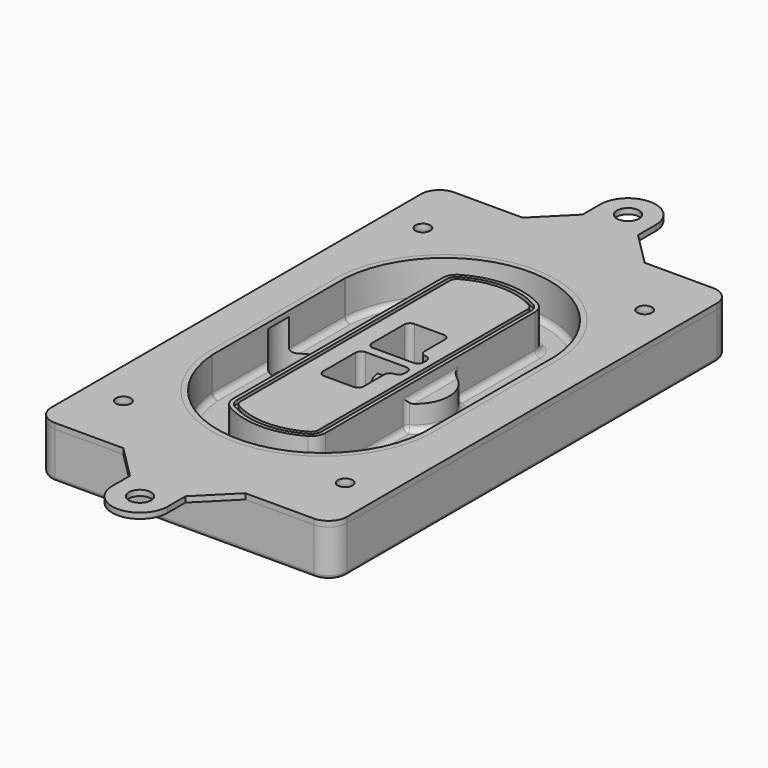
from build123d import *

# Parameters (mm, degrees)
F0_R      = 4
F1_DEPTH  = 25
F2_DEPTH  = 3
F3_DEPTH  = 18
F5_DEPTH  = 21
F6_DEPTH  = 2
F8_DEPTH  = 20
F9_DEPTH  = 16
F10_DEPTH = 25
F7_R      = 6
F7_R_2    = 4
F11_DEPTH = 6
F13_DEPTH = 9
F14_R     = 3
F15_R     = 2
F16_R     = 6
F16_R_2   = 4
F17_DEPTH = 3


with BuildPart() as f1:
    # F0 (on Top) → F1 (new body)
    with BuildSketch(Plane.XY):
        with BuildLine():
            ThreePointArc((-80, -125), (-77.0710678119, -132.0710678119), (-70, -135))
            Line((-70, -135), (70, -135))
            ThreePointArc((70, -135), (77.0710678119, -132.0710678119), (80, -125))
            Line((80, -125), (80, 125))
            ThreePointArc((80, 125), (77.0710678119, 132.0710678119), (70, 135))
            Line((70, 135), (-70, 135))
            ThreePointArc((-70, 135), (-77.0710678119, 132.0710678119), (-80, 125))
            Line((-80, 125), (-80, -125))
        make_face()
        with Locations((-60, -101.25)):
            Circle(F0_R, mode=Mode.SUBTRACT)
        with Locations((60, -101.25)):
            Circle(F0_R, mode=Mode.SUBTRACT)
        with Locations((-60, 101.25)):
            Circle(F0_R, mode=Mode.SUBTRACT)
        with BuildLine():
            ThreePointArc((-64, 44.6627429245), (-63.991269098, 45.1571001106), (-63.9650872818, 45.650840699))
            ThreePointArc((-63.9650872818, 45.650840699), (0, 105.25), (63.9650872818, 45.650840699))
            ThreePointArc((63.9650872818, 45.650840699), (63.991269098, 45.1571001106), (64, 44.6627429245))
            Line((64, 44.6627429245), (64, -44.6627429245))
            ThreePointArc((64, -44.6627429245), (63.991269098, -45.1571001106), (63.9650872818, -45.650840699))
            ThreePointArc((63.9650872818, -45.650840699), (0, -105.25), (-63.9650872818, -45.650840699))
            ThreePointArc((-63.9650872818, -45.650840699), (-63.991269098, -45.1571001106), (-64, -44.6627429245))
            Line((-64, -44.6627429245), (-64, 44.6627429245))
        make_face(mode=Mode.SUBTRACT)
        with Locations((60, 101.25)):
            Circle(F0_R, mode=Mode.SUBTRACT)
        with BuildLine():
            ThreePointArc((63.9650872818, 45.650840699), (0, 105.25), (-63.9650872818, 45.650840699))
            ThreePointArc((-63.9650872818, 45.650840699), (-63.991269098, 45.1571001106), (-64, 44.6627429245))
            Line((-64, 44.6627429245), (-64, -44.6627429245))
            ThreePointArc((-64, -44.6627429245), (-63.991269098, -45.1571001106), (-63.9650872818, -45.650840699))
            ThreePointArc((-63.9650872818, -45.650840699), (0, -105.25), (63.9650872818, -45.650840699))
            ThreePointArc((63.9650872818, -45.650840699), (63.991269098, -45.1571001106), (64, -44.6627429245))
            Line((64, -44.6627429245), (64, 44.6627429245))
            ThreePointArc((64, 44.6627429245), (63.991269098, 45.1571001106), (63.9650872818, 45.650840699))
        make_face()
        with BuildLine():
            Line((-60, -44.6627429245), (-60, 44.6627429245))
            ThreePointArc((-60, 44.6627429245), (-59.9937636414, 45.0158552003), (-59.9750623441, 45.3685270491))
            ThreePointArc((-59.9750623441, 45.3685270491), (0, 101.25), (59.9750623441, 45.3685270491))
            ThreePointArc((59.9750623441, 45.3685270491), (59.9937636414, 45.0158552003), (60, 44.6627429245))
            Line((60, 44.6627429245), (60, -44.6627429245))
            ThreePointArc((60, -44.6627429245), (59.9937636414, -45.0158552003), (59.9750623441, -45.3685270491))
            ThreePointArc((59.9750623441, -45.3685270491), (0, -101.25), (-59.9750623441, -45.3685270491))
            ThreePointArc((-59.9750623441, -45.3685270491), (-59.9937636414, -45.0158552003), (-60, -44.6627429245))
        make_face(mode=Mode.SUBTRACT)
        with BuildLine():
            ThreePointArc((-59.9750623441, 45.3685270491), (-59.9937636414, 45.0158552003), (-60, 44.6627429245))
            Line((-60, 44.6627429245), (-60, -44.6627429245))
            ThreePointArc((-60, -44.6627429245), (-59.9937636414, -45.0158552003), (-59.9750623441, -45.3685270491))
            ThreePointArc((-59.9750623441, -45.3685270491), (0, -101.25), (59.9750623441, -45.3685270491))
            ThreePointArc((59.9750623441, -45.3685270491), (59.9937636414, -45.0158552003), (60, -44.6627429245))
            Line((60, -44.6627429245), (60, 44.6627429245))
            ThreePointArc((60, 44.6627429245), (59.9937636414, 45.0158552003), (59.9750623441, 45.3685270491))
            ThreePointArc((59.9750623441, 45.3685270491), (0, 101.25), (-59.9750623441, 45.3685270491))
        make_face()
        with BuildLine():
            ThreePointArc((56.9825436409, 45.1567918117), (56.995634549, 44.9099215176), (57, 44.6627429245))
            Line((57, 44.6627429245), (57, -44.6627429245))
            ThreePointArc((57, -44.6627429245), (56.995634549, -44.9099215176), (56.9825436409, -45.1567918117))
            ThreePointArc((56.9825436409, -45.1567918117), (0, -98.25), (-56.9825436409, -45.1567918117))
            ThreePointArc((-56.9825436409, -45.1567918117), (-56.995634549, -44.9099215176), (-57, -44.6627429245))
            Line((-57, -44.6627429245), (-57, 44.6627429245))
            ThreePointArc((-57, 44.6627429245), (-56.995634549, 44.9099215176), (-56.9825436409, 45.1567918117))
            ThreePointArc((-56.9825436409, 45.1567918117), (0, 98.25), (56.9825436409, 45.1567918117))
        make_face(mode=Mode.SUBTRACT)
        with BuildLine():
            Line((57, -44.6627429245), (57, 44.6627429245))
            ThreePointArc((57, 44.6627429245), (56.995634549, 44.9099215176), (56.9825436409, 45.1567918117))
            ThreePointArc((56.9825436409, 45.1567918117), (0, 98.25), (-56.9825436409, 45.1567918117))
            ThreePointArc((-56.9825436409, 45.1567918117), (-56.995634549, 44.9099215176), (-57, 44.6627429245))
            Line((-57, 44.6627429245), (-57, -44.6627429245))
            ThreePointArc((-57, -44.6627429245), (-56.995634549, -44.9099215176), (-56.9825436409, -45.1567918117))
            ThreePointArc((-56.9825436409, -45.1567918117), (0, -98.25), (56.9825436409, -45.1567918117))
            ThreePointArc((56.9825436409, -45.1567918117), (56.995634549, -44.9099215176), (57, -44.6627429245))
        make_face()
    extrude(amount=-F1_DEPTH)

    # F0 (on Top) → F2 (join)
    with BuildSketch(Plane.XY):
        with BuildLine():
            ThreePointArc((-59.9750623441, 45.3685270491), (-59.9937636414, 45.0158552003), (-60, 44.6627429245))
            Line((-60, 44.6627429245), (-60, -44.6627429245))
            ThreePointArc((-60, -44.6627429245), (-59.9937636414, -45.0158552003), (-59.9750623441, -45.3685270491))
            ThreePointArc((-59.9750623441, -45.3685270491), (0, -101.25), (59.9750623441, -45.3685270491))
            ThreePointArc((59.9750623441, -45.3685270491), (59.9937636414, -45.0158552003), (60, -44.6627429245))
            Line((60, -44.6627429245), (60, 44.6627429245))
            ThreePointArc((60, 44.6627429245), (59.9937636414, 45.0158552003), (59.9750623441, 45.3685270491))
            ThreePointArc((59.9750623441, 45.3685270491), (0, 101.25), (-59.9750623441, 45.3685270491))
        make_face()
        with BuildLine():
            ThreePointArc((56.9825436409, 45.1567918117), (56.995634549, 44.9099215176), (57, 44.6627429245))
            Line((57, 44.6627429245), (57, -44.6627429245))
            ThreePointArc((57, -44.6627429245), (56.995634549, -44.9099215176), (56.9825436409, -45.1567918117))
            ThreePointArc((56.9825436409, -45.1567918117), (0, -98.25), (-56.9825436409, -45.1567918117))
            ThreePointArc((-56.9825436409, -45.1567918117), (-56.995634549, -44.9099215176), (-57, -44.6627429245))
            Line((-57, -44.6627429245), (-57, 44.6627429245))
            ThreePointArc((-57, 44.6627429245), (-56.995634549, 44.9099215176), (-56.9825436409, 45.1567918117))
            ThreePointArc((-56.9825436409, 45.1567918117), (0, 98.25), (56.9825436409, 45.1567918117))
        make_face(mode=Mode.SUBTRACT)
    extrude(amount=F2_DEPTH)

    # F0 (on Top) → F3 (cut)
    with BuildSketch(Plane.XY):
        with BuildLine():
            Line((57, -44.6627429245), (57, 44.6627429245))
            ThreePointArc((57, 44.6627429245), (56.995634549, 44.9099215176), (56.9825436409, 45.1567918117))
            ThreePointArc((56.9825436409, 45.1567918117), (0, 98.25), (-56.9825436409, 45.1567918117))
            ThreePointArc((-56.9825436409, 45.1567918117), (-56.995634549, 44.9099215176), (-57, 44.6627429245))
            Line((-57, 44.6627429245), (-57, -44.6627429245))
            ThreePointArc((-57, -44.6627429245), (-56.995634549, -44.9099215176), (-56.9825436409, -45.1567918117))
            ThreePointArc((-56.9825436409, -45.1567918117), (0, -98.25), (56.9825436409, -45.1567918117))
            ThreePointArc((56.9825436409, -45.1567918117), (56.995634549, -44.9099215176), (57, -44.6627429245))
        make_face()
    extrude(amount=-F3_DEPTH, mode=Mode.SUBTRACT)

    # F4 (on face) → F5 (join, through all)
    with BuildSketch(Plane.XY.offset(3)):
        with BuildLine():
            ThreePointArc((-25, -70.7141132851), (-23.9239722661, -74.7214325959), (-20.9853479853, -77.6507552274))
            ThreePointArc((-20.9853479853, -77.6507552274), (0, -83.25), (20.9853479853, -77.6507552274))
            ThreePointArc((20.9853479853, -77.6507552274), (23.9239722661, -74.7214325959), (25, -70.7141132851))
            Line((25, -70.7141132851), (25, 70.7141132851))
            ThreePointArc((25, 70.7141132851), (23.9239722661, 74.7214325959), (20.9853479853, 77.6507552274))
            ThreePointArc((20.9853479853, 77.6507552274), (0, 83.25), (-20.9853479853, 77.6507552274))
            ThreePointArc((-20.9853479853, 77.6507552274), (-23.9239722661, 74.7214325959), (-25, 70.7141132851))
            Line((-25, 70.7141132851), (-25, -70.7141132851))
        make_face()
        with BuildLine():
            ThreePointArc((19.989010989, 75.9165947419), (22.1929791996, 73.7196027682), (23, 70.7141132851))
            Line((23, 70.7141132851), (23, -70.7141132851))
            ThreePointArc((23, -70.7141132851), (22.1929791996, -73.7196027682), (19.989010989, -75.9165947419))
            ThreePointArc((19.989010989, -75.9165947419), (0, -81.25), (-19.989010989, -75.9165947419))
            ThreePointArc((-19.989010989, -75.9165947419), (-22.1929791996, -73.7196027682), (-23, -70.7141132851))
            Line((-23, -70.7141132851), (-23, 70.7141132851))
            ThreePointArc((-23, 70.7141132851), (-22.1929791996, 73.7196027682), (-19.989010989, 75.9165947419))
            ThreePointArc((-19.989010989, 75.9165947419), (0, 81.25), (19.989010989, 75.9165947419))
        make_face(mode=Mode.SUBTRACT)
        with BuildLine():
            Line((23, -70.7141132851), (23, 70.7141132851))
            ThreePointArc((23, 70.7141132851), (22.1929791996, 73.7196027682), (19.989010989, 75.9165947419))
            ThreePointArc((19.989010989, 75.9165947419), (0, 81.25), (-19.989010989, 75.9165947419))
            ThreePointArc((-19.989010989, 75.9165947419), (-22.1929791996, 73.7196027682), (-23, 70.7141132851))
            Line((-23, 70.7141132851), (-23, -70.7141132851))
            ThreePointArc((-23, -70.7141132851), (-22.1929791996, -73.7196027682), (-19.989010989, -75.9165947419))
            ThreePointArc((-19.989010989, -75.9165947419), (0, -81.25), (19.989010989, -75.9165947419))
            ThreePointArc((19.989010989, -75.9165947419), (22.1929791996, -73.7196027682), (23, -70.7141132851))
        make_face()
        with BuildLine():
            ThreePointArc((18.9926739927, 74.1824342563), (20.461986133, 72.7177729405), (21, 70.7141132851))
            Line((21, 70.7141132851), (21, -70.7141132851))
            ThreePointArc((21, -70.7141132851), (20.461986133, -72.7177729405), (18.9926739927, -74.1824342563))
            ThreePointArc((18.9926739927, -74.1824342563), (0, -79.25), (-18.9926739927, -74.1824342563))
            ThreePointArc((-18.9926739927, -74.1824342563), (-20.461986133, -72.7177729405), (-21, -70.7141132851))
            Line((-21, -70.7141132851), (-21, 70.7141132851))
            ThreePointArc((-21, 70.7141132851), (-20.461986133, 72.7177729405), (-18.9926739927, 74.1824342563))
            ThreePointArc((-18.9926739927, 74.1824342563), (0, 79.25), (18.9926739927, 74.1824342563))
        make_face(mode=Mode.SUBTRACT)
        with BuildLine():
            Line((21, -70.7141132851), (21, 70.7141132851))
            ThreePointArc((21, 70.7141132851), (20.461986133, 72.7177729405), (18.9926739927, 74.1824342563))
            ThreePointArc((18.9926739927, 74.1824342563), (0, 79.25), (-18.9926739927, 74.1824342563))
            ThreePointArc((-18.9926739927, 74.1824342563), (-20.461986133, 72.7177729405), (-21, 70.7141132851))
            Line((-21, 70.7141132851), (-21, -70.7141132851))
            ThreePointArc((-21, -70.7141132851), (-20.461986133, -72.7177729405), (-18.9926739927, -74.1824342563))
            ThreePointArc((-18.9926739927, -74.1824342563), (0, -79.25), (18.9926739927, -74.1824342563))
            ThreePointArc((18.9926739927, -74.1824342563), (20.461986133, -72.7177729405), (21, -70.7141132851))
        make_face()
        with BuildLine():
            Line((-8, -2.5), (14, -2.5))
            ThreePointArc((14, -2.5), (16.1213203436, -3.3786796564), (17, -5.5))
            Line((17, -5.5), (17, -7.5))
            ThreePointArc((17, -7.5), (16.1213203436, -9.6213203436), (14, -10.5))
            ThreePointArc((14, -10.5), (11.8786796564, -11.3786796564), (11, -13.5))
            Line((11, -13.5), (11, -27.5))
            ThreePointArc((11, -27.5), (10.1213203436, -29.6213203436), (8, -30.5))
            Line((8, -30.5), (-8, -30.5))
            ThreePointArc((-8, -30.5), (-10.1213203436, -29.6213203436), (-11, -27.5))
            Line((-11, -27.5), (-11, -5.5))
            ThreePointArc((-11, -5.5), (-10.1213203436, -3.3786796564), (-8, -2.5))
        make_face(mode=Mode.SUBTRACT)
        with BuildLine():
            ThreePointArc((-8, 2.5), (-10.1213203436, 3.3786796564), (-11, 5.5))
            Line((-11, 5.5), (-11, 27.5))
            ThreePointArc((-11, 27.5), (-10.1213203436, 29.6213203436), (-8, 30.5))
            Line((-8, 30.5), (8, 30.5))
            ThreePointArc((8, 30.5), (10.1213203436, 29.6213203436), (11, 27.5))
            Line((11, 27.5), (11, 13.5))
            ThreePointArc((11, 13.5), (11.8786796564, 11.3786796564), (14, 10.5))
            ThreePointArc((14, 10.5), (16.1213203436, 9.6213203436), (17, 7.5))
            Line((17, 7.5), (17, 5.5))
            ThreePointArc((17, 5.5), (16.1213203436, 3.3786796564), (14, 2.5))
            Line((14, 2.5), (-8, 2.5))
        make_face(mode=Mode.SUBTRACT)
    extrude(amount=-F5_DEPTH)

    # F4 (on face) → F6 (cut)
    with BuildSketch(Plane.XY.offset(3)):
        with BuildLine():
            Line((23, -70.7141132851), (23, 70.7141132851))
            ThreePointArc((23, 70.7141132851), (22.1929791996, 73.7196027682), (19.989010989, 75.9165947419))
            ThreePointArc((19.989010989, 75.9165947419), (0, 81.25), (-19.989010989, 75.9165947419))
            ThreePointArc((-19.989010989, 75.9165947419), (-22.1929791996, 73.7196027682), (-23, 70.7141132851))
            Line((-23, 70.7141132851), (-23, -70.7141132851))
            ThreePointArc((-23, -70.7141132851), (-22.1929791996, -73.7196027682), (-19.989010989, -75.9165947419))
            ThreePointArc((-19.989010989, -75.9165947419), (0, -81.25), (19.989010989, -75.9165947419))
            ThreePointArc((19.989010989, -75.9165947419), (22.1929791996, -73.7196027682), (23, -70.7141132851))
        make_face()
        with BuildLine():
            ThreePointArc((18.9926739927, 74.1824342563), (20.461986133, 72.7177729405), (21, 70.7141132851))
            Line((21, 70.7141132851), (21, -70.7141132851))
            ThreePointArc((21, -70.7141132851), (20.461986133, -72.7177729405), (18.9926739927, -74.1824342563))
            ThreePointArc((18.9926739927, -74.1824342563), (0, -79.25), (-18.9926739927, -74.1824342563))
            ThreePointArc((-18.9926739927, -74.1824342563), (-20.461986133, -72.7177729405), (-21, -70.7141132851))
            Line((-21, -70.7141132851), (-21, 70.7141132851))
            ThreePointArc((-21, 70.7141132851), (-20.461986133, 72.7177729405), (-18.9926739927, 74.1824342563))
            ThreePointArc((-18.9926739927, 74.1824342563), (0, 79.25), (18.9926739927, 74.1824342563))
        make_face(mode=Mode.SUBTRACT)
    extrude(amount=-F6_DEPTH, mode=Mode.SUBTRACT)

    # F7 (on face) → F8 (join)
    with BuildSketch(Plane(origin=(0, 0, -25), x_dir=(1, 0, 0), z_dir=(0, 0, -1))):
        with BuildLine():
            ThreePointArc((3.28842436, 0), (16.7567035675, 13.4682792075), (30.224982775, 0))
            Line((30.224982775, 0), (35.224982775, 0))
            ThreePointArc((35.224982775, 0), (16.7567035675, 18.4682792075), (-1.71157564, 0))
            Line((-1.71157564, 0), (3.28842436, 0))
        make_face()
        with BuildLine():
            Line((3.28842436, 0), (30.224982775, 0))
            ThreePointArc((30.224982775, 0), (16.7567035675, 13.4682792075), (3.28842436, 0))
        make_face()
        with BuildLine():
            ThreePointArc((3.28842436, 0), (16.7567035675, -13.4682792075), (30.224982775, 0))
            Line((30.224982775, 0), (3.28842436, 0))
        make_face()
        with BuildLine():
            Line((35.224982775, 0), (30.224982775, 0))
            ThreePointArc((30.224982775, 0), (16.7567035675, -13.4682792075), (3.28842436, 0))
            Line((3.28842436, 0), (-1.71157564, 0))
            ThreePointArc((-1.71157564, 0), (16.7567035675, -18.4682792075), (35.224982775, 0))
        make_face()
    extrude(amount=-F8_DEPTH)

    # F7 (on face) → F9 (cut)
    with BuildSketch(Plane(origin=(0, 0, -25), x_dir=(1, 0, 0), z_dir=(0, 0, -1))):
        with BuildLine():
            Line((3.28842436, 0), (30.224982775, 0))
            ThreePointArc((30.224982775, 0), (16.7567035675, 13.4682792075), (3.28842436, 0))
        make_face()
        with BuildLine():
            ThreePointArc((3.28842436, 0), (16.7567035675, -13.4682792075), (30.224982775, 0))
            Line((30.224982775, 0), (3.28842436, 0))
        make_face()
    extrude(amount=-F9_DEPTH, mode=Mode.SUBTRACT)

    # F7 (on face) → F10 (cut)
    with BuildSketch(Plane(origin=(0, 0, -25), x_dir=(1, 0, 0), z_dir=(0, 0, -1))):
        with BuildLine():
            Line((-59.0318229325, 0), (-32.0952645175, 0))
            ThreePointArc((-32.0952645175, 0), (-45.563543725, 13.4682792075), (-59.0318229325, 0))
        make_face()
        with BuildLine():
            ThreePointArc((-59.0318229325, 0), (-45.563543725, -13.4682792075), (-32.0952645175, 0))
            Line((-32.0952645175, 0), (-59.0318229325, 0))
        make_face()
    extrude(amount=-F10_DEPTH, mode=Mode.SUBTRACT)

    # F7 (on face) → F11 (cut)
    with BuildSketch(Plane(origin=(0, 0, -25), x_dir=(1, 0, 0), z_dir=(0, 0, -1))):
        with Locations((60, -101.25)):
            Circle(F7_R)
        with Locations((60, -101.25)):
            Circle(F7_R_2, mode=Mode.SUBTRACT)
        with Locations((60, -101.25)):
            Circle(F7_R)
        with Locations((60, -101.25)):
            Circle(F7_R_2, mode=Mode.SUBTRACT)
        with Locations((-60, -101.25)):
            Circle(F7_R)
        with Locations((-60, -101.25)):
            Circle(F7_R_2, mode=Mode.SUBTRACT)
        with Locations((-60, -101.25)):
            Circle(F7_R)
        with Locations((-60, -101.25)):
            Circle(F7_R_2, mode=Mode.SUBTRACT)
        with Locations((-60, 101.25)):
            Circle(F7_R)
        with Locations((-60, 101.25)):
            Circle(F7_R_2, mode=Mode.SUBTRACT)
        with Locations((-60, 101.25)):
            Circle(F7_R)
        with Locations((-60, 101.25)):
            Circle(F7_R_2, mode=Mode.SUBTRACT)
        with Locations((60, 101.25)):
            Circle(F7_R)
        with Locations((60, 101.25)):
            Circle(F7_R_2, mode=Mode.SUBTRACT)
        with Locations((60, 101.25)):
            Circle(F7_R)
        with Locations((60, 101.25)):
            Circle(F7_R_2, mode=Mode.SUBTRACT)
    extrude(amount=-F11_DEPTH, mode=Mode.SUBTRACT)

    # F12 (on face) → F13 (cut, through all)
    with BuildSketch(Plane(origin=(0, 0, -9), x_dir=(1, 0, 0), z_dir=(0, 0, -1))):
        with BuildLine():
            Line((11, 13.5), (11, 17.5481537753))
            ThreePointArc((11, 17.5481537753), (2.5696536419, 11.8239143813), (-1.5415842455, 2.5))
            Line((-1.5415842455, 2.5), (3.5224848595, 2.5))
            ThreePointArc((3.5224848595, 2.5), (6.1857188154, 8.3455872281), (11.2536447004, 12.2927168648))
            ThreePointArc((11.2536447004, 12.2927168648), (11.0640958889, 12.8831798879), (11, 13.5))
        make_face()
        with BuildLine():
            ThreePointArc((11.2536447004, -12.2927168648), (6.1857188154, -8.3455872281), (3.5224848595, -2.5))
            Line((3.5224848595, -2.5), (-1.5415842455, -2.5))
            ThreePointArc((-1.5415842455, -2.5), (2.5696536419, -11.8239143813), (11, -17.5481537753))
            Line((11, -17.5481537753), (11, -13.5))
            ThreePointArc((11, -13.5), (11.0640958889, -12.8831798879), (11.2536447004, -12.2927168648))
        make_face()
        with BuildLine():
            ThreePointArc((11.2536447004, 12.2927168648), (6.1857188154, 8.3455872281), (3.5224848595, 2.5))
            Line((3.5224848595, 2.5), (14, 2.5))
            ThreePointArc((14, 2.5), (16.1213203436, 3.3786796564), (17, 5.5))
            Line((17, 5.5), (17, 7.5))
            ThreePointArc((17, 7.5), (16.1213203436, 9.6213203436), (14, 10.5))
            ThreePointArc((14, 10.5), (12.3601599782, 10.9878446101), (11.2536447004, 12.2927168648))
        make_face()
        with BuildLine():
            Line((14, -2.5), (3.5224848595, -2.5))
            ThreePointArc((3.5224848595, -2.5), (6.1857188154, -8.3455872281), (11.2536447004, -12.2927168648))
            ThreePointArc((11.2536447004, -12.2927168648), (12.3601599782, -10.9878446101), (14, -10.5))
            ThreePointArc((14, -10.5), (16.1213203436, -9.6213203436), (17, -7.5))
            Line((17, -7.5), (17, -5.5))
            ThreePointArc((17, -5.5), (16.1213203436, -3.3786796564), (14, -2.5))
        make_face()
    extrude(amount=F13_DEPTH, mode=Mode.SUBTRACT)

    # F14
    f14_edges = [f1.edges().sort_by_distance(p)[0] for p in [
        (-57, -25.888126, -18),
        (-57, 25.888126, -18),
        (25, 0, -5),
        (25, 16.526506, -11.5),
        (25, -16.526506, -11.5),
        (25, -43.62031, -18),
        (35.224983, 0, -18),
    ]]
    fillet(f14_edges, radius=F14_R)

    # F15
    f15_edges = [f1.edges().sort_by_distance(p)[0] for p in [
        (0, -135, -25),
    ]]
    fillet(f15_edges, radius=F15_R)


with BuildPart() as f17:
    # F16 (on face) → F17 (new body, through all)
    with BuildSketch(Plane.XY):
        with BuildLine():
            Line((15, 153), (15, 165))
            ThreePointArc((15, 165), (0, 180), (-15, 165))
            Line((-15, 165), (-15, 153))
            Line((-15, 153), (-33, 135))
            Line((-33, 135), (33, 135))
            Line((33, 135), (15, 153))
        make_face()
        with Locations((0, 165)):
            Circle(F16_R, mode=Mode.SUBTRACT)
        with BuildLine():
            Line((15, -153), (33, -135))
            Line((33, -135), (-33, -135))
            Line((-33, -135), (-15, -153))
            Line((-15, -153), (-15, -165))
            ThreePointArc((-15, -165), (0, -180), (15, -165))
            Line((15, -165), (15, -153))
        make_face()
        with Locations((0, -165)):
            Circle(F16_R, mode=Mode.SUBTRACT)
        with BuildLine():
            Line((70, 135), (33, 135))
            Line((33, 135), (-33, 135))
            Line((-33, 135), (-70, 135))
            ThreePointArc((-70, 135), (-77.0710678119, 132.0710678119), (-80, 125))
            Line((-80, 125), (-80, -125))
            ThreePointArc((-80, -125), (-77.0710678119, -132.0710678119), (-70, -135))
            Line((-70, -135), (-33, -135))
            Line((-33, -135), (33, -135))
            Line((33, -135), (70, -135))
            ThreePointArc((70, -135), (77.0710678119, -132.0710678119), (80, -125))
            Line((80, -125), (80, 125))
            ThreePointArc((80, 125), (77.0710678119, 132.0710678119), (70, 135))
        make_face()
        with Locations((-60, -101.25)):
            Circle(F16_R_2, mode=Mode.SUBTRACT)
        with Locations((60, -101.25)):
            Circle(F16_R_2, mode=Mode.SUBTRACT)
        with Locations((-60, 101.25)):
            Circle(F16_R_2, mode=Mode.SUBTRACT)
        with BuildLine():
            ThreePointArc((-60, 44.6627429245), (-59.9937636414, 45.0158552003), (-59.9750623441, 45.3685270491))
            ThreePointArc((-59.9750623441, 45.3685270491), (0, 101.25), (59.9750623441, 45.3685270491))
            ThreePointArc((59.9750623441, 45.3685270491), (59.9937636414, 45.0158552003), (60, 44.6627429245))
            Line((60, 44.6627429245), (60, -44.6627429245))
            ThreePointArc((60, -44.6627429245), (59.9937636414, -45.0158552003), (59.9750623441, -45.3685270491))
            ThreePointArc((59.9750623441, -45.3685270491), (0, -101.25), (-59.9750623441, -45.3685270491))
            ThreePointArc((-59.9750623441, -45.3685270491), (-59.9937636414, -45.0158552003), (-60, -44.6627429245))
            Line((-60, -44.6627429245), (-60, 44.6627429245))
        make_face(mode=Mode.SUBTRACT)
        with Locations((60, 101.25)):
            Circle(F16_R_2, mode=Mode.SUBTRACT)
    extrude(amount=F17_DEPTH)


solid = Compound([f1.part, f17.part])
